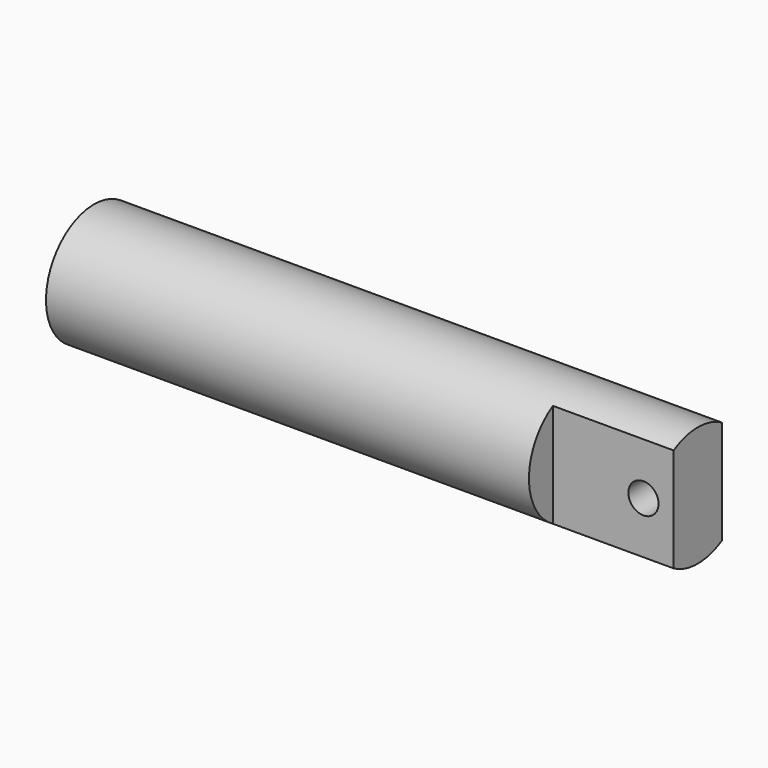
from build123d import *

# Parameters (mm, degrees)
F0_R     = 12.6365
F1_DEPTH = 63.5
F2_W     = 8.141026
F2_H     = 38.751284
F2_W_2   = 8.629488
F2_H_2   = 39.728208
F3_DEPTH = 25.4
F4_R     = 3.175
F5_DEPTH = 25.4


with BuildPart() as f1:
    # F0 (on Right) → F1 (new body, symmetric)
    with BuildSketch(Plane.YZ):
        Circle(F0_R)
    extrude(amount=F1_DEPTH, both=True)

    # F2 (on face) → F3 (cut)
    with BuildSketch(Plane.YZ.offset(63.5)):
        with Locations((10.420513, 0.115096)):
            Rectangle(F2_W, F2_H)
        with Locations((-10.664744, 1.092019)):
            Rectangle(F2_W_2, F2_H_2)
    extrude(amount=-F3_DEPTH, mode=Mode.SUBTRACT)

    # F4 (on face) → F5 (cut)
    with BuildSketch(Plane.XZ.offset(6.35)):
        with Locations((57.15, 0)):
            Circle(F4_R)
    extrude(amount=-F5_DEPTH, mode=Mode.SUBTRACT)

    # F6 (on Front) → F7 (revolve, cut)
    with BuildSketch(Plane.XZ):
        with BuildLine():
            Line((-63.5, 0), (-57.15, 0))
            ThreePointArc((-57.15, 0), (-58.851477, 6.35), (-63.5, 10.998523))
            Line((-63.5, 10.998523), (-63.5, 0))
        make_face()
    revolve(axis=Axis((-60.325, 0, 0), (1, 0, 0)), mode=Mode.SUBTRACT)


solid = f1.part
